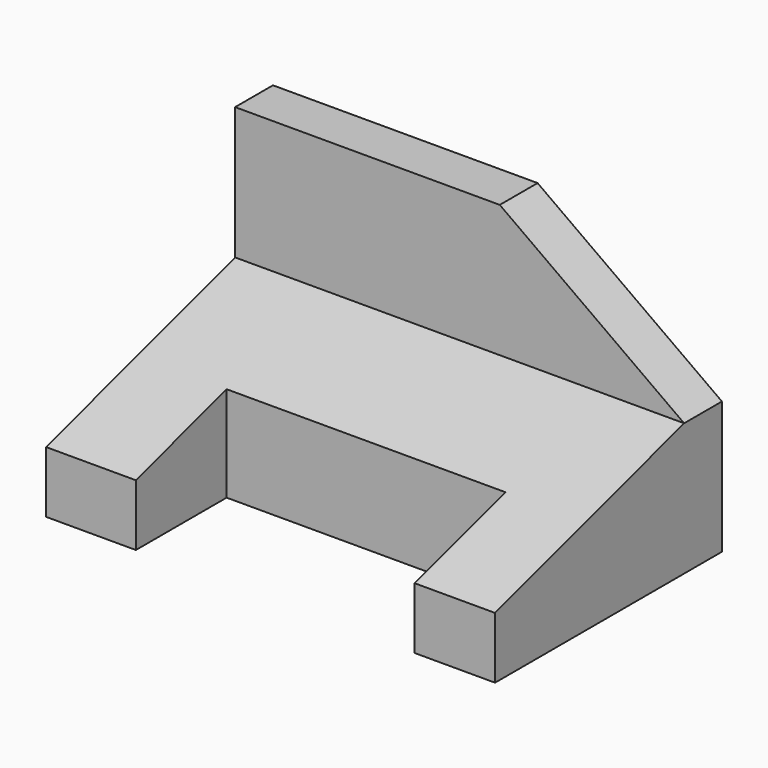
from build123d import *

# Parameters (mm, degrees)
F1_DEPTH = 95
F3_DEPTH = 45.5
F4_W     = 59
F4_H     = 24
F5_DEPTH = 95


with BuildPart() as f1:
    # F0 (on Right) → F1 (new body)
    with BuildSketch(Plane.YZ):
        Polygon((-60, 0), (0, 0), (0, 56), (-10, 56), (-10, 28), (-60, 13), align=None)
    extrude(amount=-F1_DEPTH)

    # F2 (on face) → F3 (cut)
    with BuildSketch(Plane.XZ.offset(10)):
        Polygon((-39, 56), (0, 28), (0, 56), align=None)
    extrude(amount=-F3_DEPTH, mode=Mode.SUBTRACT)

    # F4 (on face) → F5 (cut)
    with BuildSketch(Plane(origin=(0, 0, 0), x_dir=(1, 0, 0), z_dir=(0, 0, -1))):
        with Locations((-46.5, 48)):
            Rectangle(F4_W, F4_H)
    extrude(amount=-F5_DEPTH, mode=Mode.SUBTRACT)


solid = f1.part
